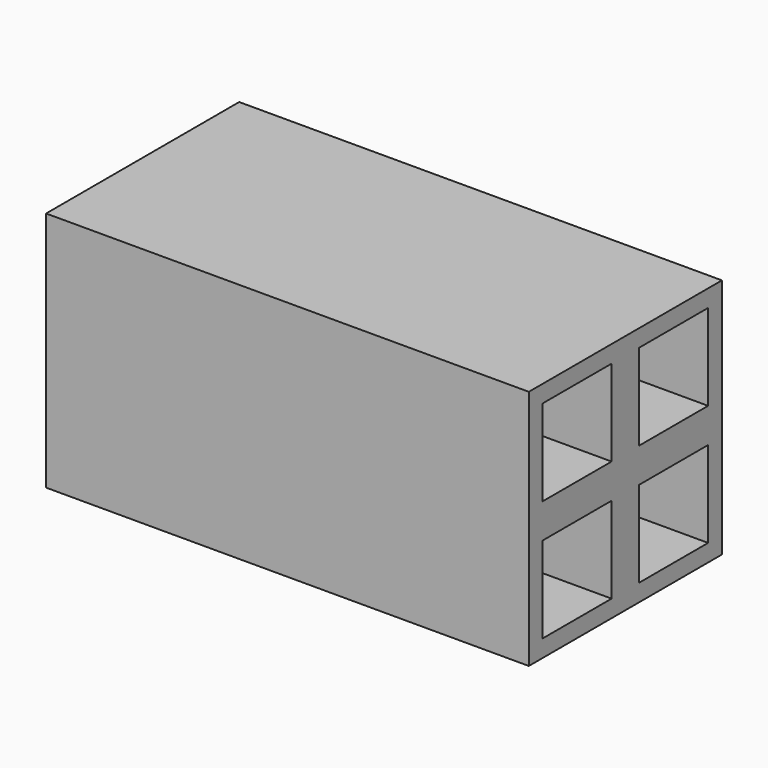
from build123d import *

# Parameters (mm, degrees)
SKETCH_W   = 140
SKETCH_H   = 140
SKETCH_W_2 = 50
SKETCH_H_2 = 50
PAD_DEPTH  = 280


with BuildPart() as part:
    # Sketch → Pad (new body)
    with BuildSketch(Plane.YZ):
        Rectangle(SKETCH_W, SKETCH_H)
        with Locations((35, 35)):
            Rectangle(SKETCH_W_2, SKETCH_H_2, mode=Mode.SUBTRACT)
        with Locations((-35, 35)):
            Rectangle(SKETCH_W_2, SKETCH_H_2, mode=Mode.SUBTRACT)
        with Locations((-35, -35)):
            Rectangle(SKETCH_W_2, SKETCH_H_2, mode=Mode.SUBTRACT)
        with Locations((35, -35)):
            Rectangle(SKETCH_W_2, SKETCH_H_2, mode=Mode.SUBTRACT)
    extrude(amount=PAD_DEPTH)


solid = part.part
